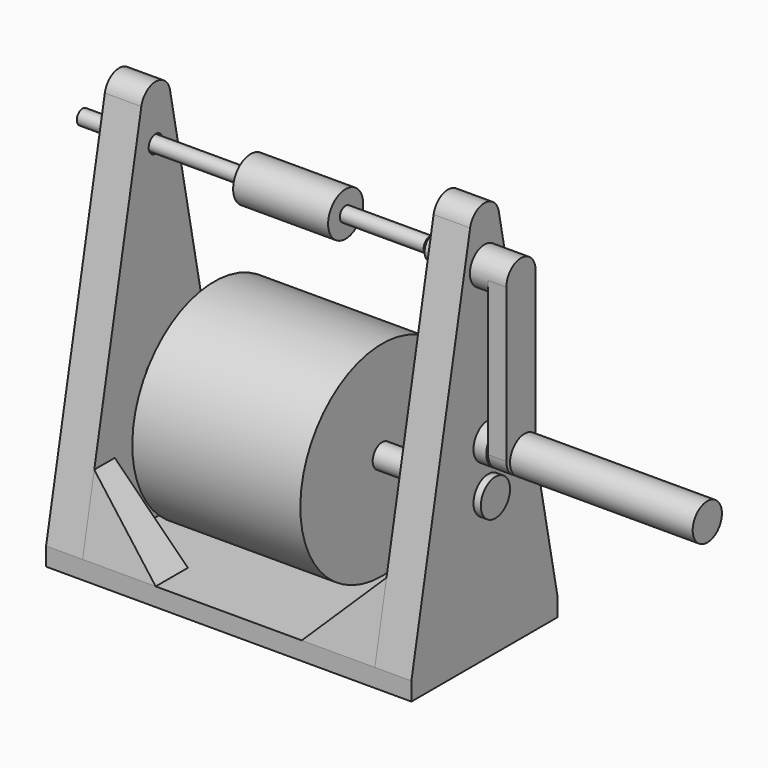
from build123d import *

# Parameters (mm, degrees)
SKETCH_W          = 100
SKETCH_H          = 50
PAD_DEPTH         = 5
PAD001_DEPTH      = 10
SKETCH002_R       = 3.5
POCKET_DEPTH      = 110
PAD002_DEPTH      = 11
POCKET001_DEPTH   = 80
SKETCH022_R       = 3.5
SKETCH022_R_2     = 2.4
PAD018_DEPTH      = 10
CYLINDER_R        = 28
CYLINDER_DEPTH    = 46
CYLINDER001_R     = 6
CYLINDER001_DEPTH = 26
SKETCH017_R       = 3.25
PAD014_DEPTH      = 106
SKETCH018_R       = 5
PAD015_DEPTH      = 2
SKETCH012_R       = 2.25
PAD009_DEPTH      = 9
SKETCH013_R       = 5
PAD010_DEPTH      = 3.5
SKETCH021_R       = 5
PAD017_DEPTH      = 50
SKETCH005_R       = 2
PAD003_DEPTH      = 50
SKETCH006_R       = 3.25
PAD004_DEPTH      = 15
SKETCH007_R       = 3.25
PAD005_DEPTH      = 15
SKETCH008_R       = 3.25
PAD006_DEPTH      = 10
PAD007_DEPTH      = 5
SKETCH010_R       = 5
PAD008_DEPTH      = 5
SKETCH011_R       = 2.5
POCKET002_DEPTH   = 5
SKETCH019_R       = 2
PAD016_DEPTH      = 10
SKETCH020_R       = 3.25
SKETCH020_R_2     = 2
POCKET003_DEPTH   = 25
CHAMFER_SIZE      = 1.2


with BuildPart() as platform:
    # Sketch → Pad (new body)
    with BuildSketch(Plane.XY):
        Rectangle(SKETCH_W, SKETCH_H)
    extrude(amount=PAD_DEPTH)

    # Sketch001 (on Face2 of Pad) → Pad001 (join)
    with BuildSketch(Plane.YZ.offset(50)):
        with BuildLine():
            Line((-25, 5), (-4.903826, 105.975956))
            ThreePointArc((4.903826, 105.975956), (0, 110), (-4.903826, 105.975956))
            Line((25, 5), (4.903826, 105.975956))
            Line((-25, 5), (25, 5))
        make_face()
    pad001 = extrude(amount=-PAD001_DEPTH)

    # Mirrored: Pad001 across YZ
    add(pad001.mirror(Plane.YZ))

    # Sketch002 (on Face10 of Mirrored) → Pocket (cut)
    with BuildSketch(Plane.YZ.offset(50)):
        with Locations((0, 40)):
            Circle(SKETCH002_R)
        with Locations((0, 95)):
            Circle(SKETCH002_R)
    extrude(amount=-POCKET_DEPTH, mode=Mode.SUBTRACT)

    # Sketch003 (on Face8 of Pocket) → Pad002 (join)
    with BuildSketch(Plane.XZ.offset(25)):
        Polygon((-40, 5), (-20, 5), (-40, 25), align=None)
        Polygon((40, 5), (20, 5), (40, 25), align=None)
    pad002 = extrude(amount=-PAD002_DEPTH)

    # Mirrored001: Pad002 across XZ
    add(pad002.mirror(Plane.XZ))

    # Sketch004 (on Face36 of Mirrored001) → Pocket001 (cut)
    with BuildSketch(Plane(origin=(-40, 0, 0), x_dir=(0, -1, 0), z_dir=(-1, 0, 0))):
        Polygon((21.019612, 25), (25, 25), (25, 5), align=None)
        Polygon((-21.019612, 25), (-25, 5), (-25, 25), align=None)
    extrude(amount=-POCKET001_DEPTH, mode=Mode.SUBTRACT)

    # Sketch022 (on Face11 of Pocket001) → Pad018 (join)
    with BuildSketch(Plane(origin=(-50, 0, 0), x_dir=(0, -1, 0), z_dir=(-1, 0, 0))):
        with Locations((0, 95)):
            Circle(SKETCH022_R)
        with Locations((0, 95)):
            Circle(SKETCH022_R_2, mode=Mode.SUBTRACT)
    extrude(amount=-PAD018_DEPTH)


with BuildPart() as cylinder:
    # Cylinder → Cylinder (new body)
    with BuildSketch(Plane(origin=(-24, 0, 39), x_dir=(0, 0, -1), z_dir=(1, 0, 0))):
        Circle(CYLINDER_R)
    extrude(amount=CYLINDER_DEPTH)


with BuildPart() as cylinder001:
    # Cylinder001 → Cylinder001 (new body)
    with BuildSketch(Plane(origin=(-14, 0, 95), x_dir=(0, 0, -1), z_dir=(1, 0, 0))):
        Circle(CYLINDER001_R)
    extrude(amount=CYLINDER001_DEPTH)


with BuildPart() as shaft:
    # Sketch017 → Pad014 (new body)
    with BuildSketch(Plane.YZ):
        Circle(SKETCH017_R)
    extrude(amount=-PAD014_DEPTH)

    # Sketch018 (on Face2 of Pad014) → Pad015 (join)
    with BuildSketch(Plane.YZ):
        Circle(SKETCH018_R)
    extrude(amount=PAD015_DEPTH)


with BuildPart() as shaft_1:
    # Body003 placement: moved
    add(shaft.part.moved(Location((51, 0, 40))))


with BuildPart() as body002:
    # Sketch012 → Pad009 (new body)
    with BuildSketch(Plane.YZ):
        Circle(SKETCH012_R)
    extrude(amount=PAD009_DEPTH)

    # Sketch013 (on Face2 of Pad009) → Pad010 (join)
    with BuildSketch(Plane(origin=(-2, 0, 0), x_dir=(0, 1, 0), z_dir=(-1, 0, 0))):
        Circle(SKETCH013_R)
    extrude(amount=-PAD010_DEPTH)

    # Sketch021 (on Face3 of Pad010) → Pad017 (join)
    with BuildSketch(Plane.YZ.offset(8)):
        Circle(SKETCH021_R)
    extrude(amount=PAD017_DEPTH)


with BuildPart() as body002_1:
    # Body002 placement: moved
    add(body002.part.moved(Location((53, 0, 53))))


with BuildPart() as hand:
    # Sketch005 → Pad003 (new body, symmetric)
    with BuildSketch(Plane.YZ):
        Circle(SKETCH005_R)
    extrude(amount=PAD003_DEPTH, both=True)

    # Sketch006 (on Face2 of Pad003) → Pad004 (join)
    with BuildSketch(Plane(origin=(-50, 0, 0), x_dir=(0, 1, 0), z_dir=(-1, 0, 0))):
        Circle(SKETCH006_R)
    extrude(amount=-PAD004_DEPTH)

    # Sketch007 (on Face6 of Pad004) → Pad005 (join)
    with BuildSketch(Plane.YZ.offset(50)):
        Circle(SKETCH007_R)
    extrude(amount=-PAD005_DEPTH)

    # Sketch008 (on Face9 of Pad005) → Pad006 (join)
    with BuildSketch(Plane.YZ.offset(50)):
        Circle(SKETCH008_R)
    extrude(amount=PAD006_DEPTH)

    # Sketch009 (on Face9 of Pad006) → Pad007 (join)
    with BuildSketch(Plane.YZ.offset(60)):
        with BuildLine():
            ThreePointArc((5, 0), (0, 5), (-5, 0))
            Line((-5, 0), (-5, -41.999974))
            ThreePointArc((-5, -41.999974), (-1.3e-05, -47), (5, -42))
            Line((5, 0), (5, -42))
        make_face()
    extrude(amount=-PAD007_DEPTH)

    # Sketch010 (on Face15 of Pad007) → Pad008 (join)
    with BuildSketch(Plane.YZ.offset(50)):
        Circle(SKETCH010_R)
    extrude(amount=PAD008_DEPTH)

    # Sketch011 (on Face15 of Pad008) → Pocket002 (cut)
    with BuildSketch(Plane.YZ.offset(60)):
        with Locations((0, -42)):
            Circle(SKETCH011_R)
    extrude(amount=-POCKET002_DEPTH, mode=Mode.SUBTRACT)

    # Sketch019 (on Face1 of Pocket002) → Pad016 (join)
    with BuildSketch(Plane(origin=(-50, 0, 0), x_dir=(0, 1, 0), z_dir=(-1, 0, 0))):
        Circle(SKETCH019_R)
    extrude(amount=PAD016_DEPTH)

    # Sketch020 (on Face5 of Pad016) → Pocket003 (cut)
    with BuildSketch(Plane(origin=(-60, 0, 0), x_dir=(0, 1, 0), z_dir=(-1, 0, 0))):
        Circle(SKETCH020_R)
        Circle(SKETCH020_R_2, mode=Mode.SUBTRACT)
    extrude(amount=-POCKET003_DEPTH, mode=Mode.SUBTRACT)

    # Chamfer
    chamfer_edges = [hand.edges().sort_by_distance(p)[0] for p in [
        (35, -3.25, 0),
    ]]
    chamfer(chamfer_edges, length=CHAMFER_SIZE)


with BuildPart() as hand_1:
    # Body001 placement: moved
    add(hand.part.moved(Location((0, 0, 95))))

    # Fusion: union Body002
    add(body002_1.part)


solid = Compound([platform.part, cylinder.part, cylinder001.part, shaft_1.part, hand_1.part])
